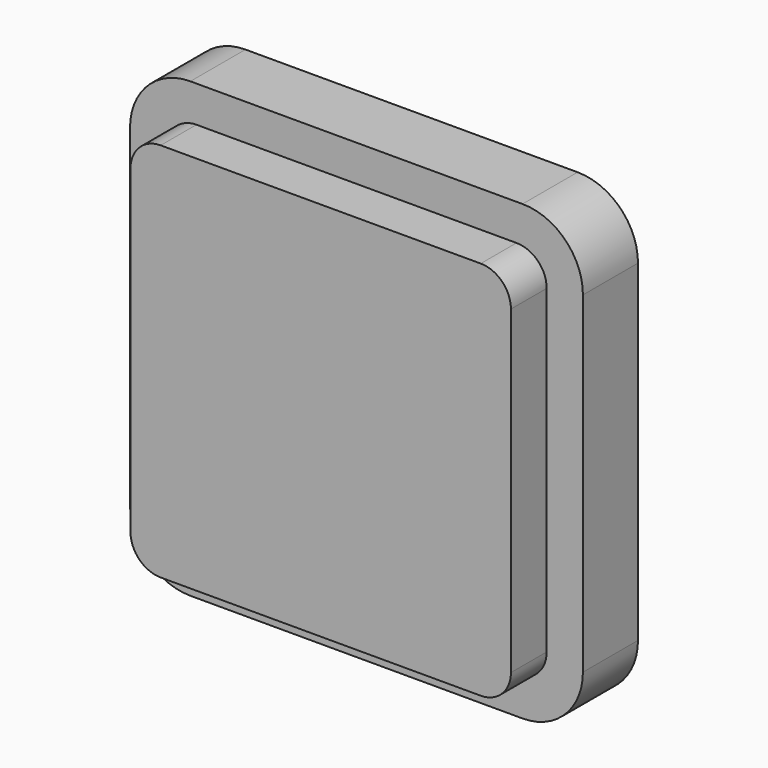
from build123d import *

# Parameters (mm, degrees)
F1_DEPTH = 11.4
F3_DEPTH = 5.4
F5_DEPTH = 7.4


with BuildPart() as f1:
    # F0 (on Front) → F1 (new body)
    with BuildSketch(Plane.XZ):
        with BuildLine():
            ThreePointArc((0, 10), (2.9289321881, 2.9289321881), (10, 0))
            Line((10, 0), (65, 0))
            ThreePointArc((65, 0), (72.0710678119, 2.9289321881), (75, 10))
            Line((75, 10), (75, 65))
            ThreePointArc((75, 65), (72.0710678119, 72.0710678119), (65, 75))
            Line((65, 75), (10, 75))
            ThreePointArc((10, 75), (2.9289321881, 72.0710678119), (0, 65))
            Line((0, 65), (0, 10))
        make_face()
        with BuildLine():
            ThreePointArc((1.7, 65), (4.1310137162, 70.8689862838), (10, 73.3))
            Line((10, 73.3), (65, 73.3))
            ThreePointArc((65, 73.3), (70.8689862838, 70.8689862838), (73.3, 65))
            Line((73.3, 65), (73.3, 10))
            ThreePointArc((73.3, 10), (70.8689862838, 4.1310137162), (65, 1.7))
            Line((65, 1.7), (10, 1.7))
            ThreePointArc((10, 1.7), (4.1310137162, 4.1310137162), (1.7, 10))
            Line((1.7, 10), (1.7, 65))
        make_face(mode=Mode.SUBTRACT)
    extrude(amount=F1_DEPTH)

    # F2 (on face) → F3 (join)
    with BuildSketch(Plane.XZ.offset(11.4)):
        with BuildLine():
            ThreePointArc((10, 73.3), (4.1310137162, 70.8689862838), (1.7, 65))
            Line((1.7, 65), (1.7, 10))
            ThreePointArc((1.7, 10), (4.1310137162, 4.1310137162), (10, 1.7))
            Line((10, 1.7), (65, 1.7))
            ThreePointArc((65, 1.7), (70.8689862838, 4.1310137162), (73.3, 10))
            Line((73.3, 10), (73.3, 65))
            ThreePointArc((73.3, 65), (70.8689862838, 70.8689862838), (65, 73.3))
            Line((65, 73.3), (10, 73.3))
        make_face()
    extrude(amount=-F3_DEPTH)

    # F4 (on face) → F5 (join)
    with BuildSketch(Plane.XZ.offset(11.4)):
        with BuildLine():
            Line((64, 69), (11, 69))
            ThreePointArc((11, 69), (7.4644660941, 67.5355339059), (6, 64))
            Line((6, 64), (6, 11))
            ThreePointArc((6, 11), (7.4644660941, 7.4644660941), (11, 6))
            Line((11, 6), (64, 6))
            ThreePointArc((64, 6), (67.5355339059, 7.4644660941), (69, 11))
            Line((69, 11), (69, 64))
            ThreePointArc((69, 64), (67.5355339059, 67.5355339059), (64, 69))
        make_face()
    extrude(amount=F5_DEPTH)


solid = f1.part
